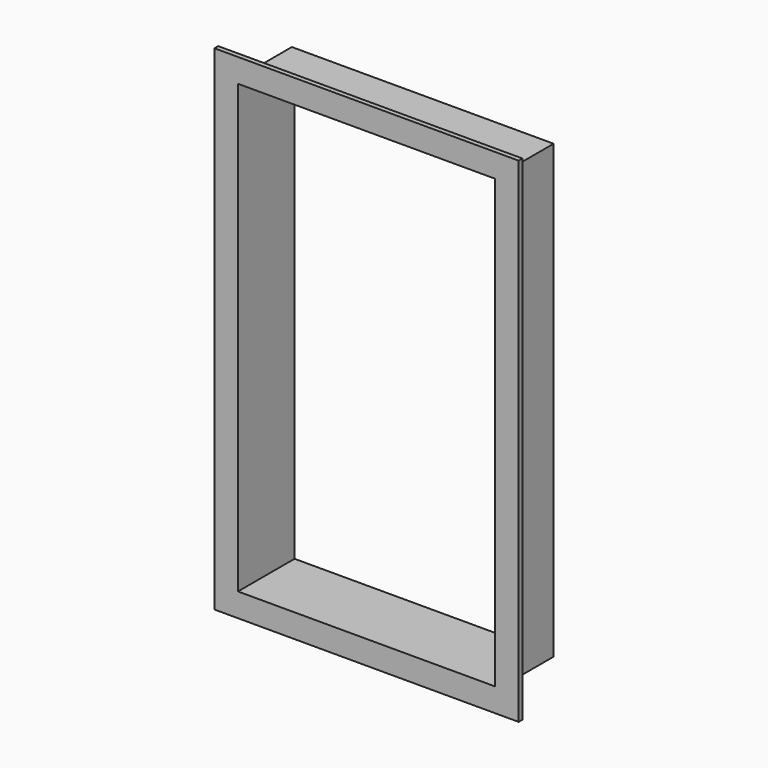
from build123d import *

# Parameters (mm, degrees)
F0_W     = 1290
F0_H     = 2095
F0_W_2   = 1090
F0_H_2   = 1895
F1_DEPTH = 20
F2_W     = 1109.902799
F2_H     = 1914.779186
F2_W_2   = 1090
F2_H_2   = 1895
F3_DEPTH = 300


with BuildPart() as f1:
    # F0 (on Front) → F1 (new body)
    with BuildSketch(Plane.XZ):
        with Locations((-0.350261, 31.051584)):
            Rectangle(F0_W, F0_H)
        with Locations((-0.350261, 31.051584)):
            Rectangle(F0_W_2, F0_H_2, mode=Mode.SUBTRACT)
    extrude(amount=-F1_DEPTH)

    # F2 (on face) → F3 (join)
    with BuildSketch(Plane.XZ):
        with Locations((-2.025813, 32.627225)):
            Rectangle(F2_W, F2_H)
        with Locations((-0.350261, 31.051584)):
            Rectangle(F2_W_2, F2_H_2, mode=Mode.SUBTRACT)
    extrude(amount=-F3_DEPTH)


solid = f1.part
